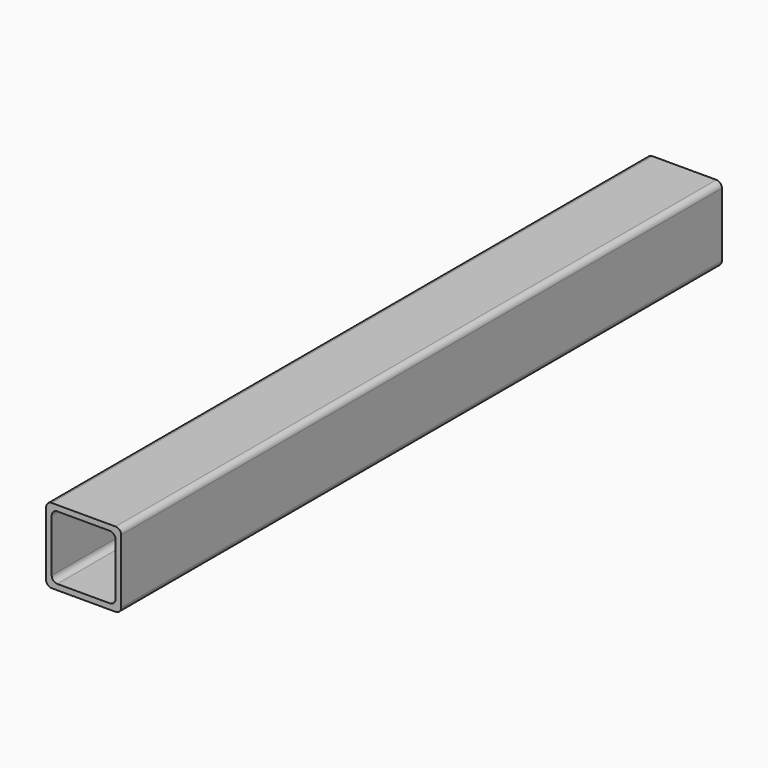
from build123d import *

# Parameters (mm, degrees)
F1_DEPTH = 200


with BuildPart() as f1:
    # F0 (on Front) → F1 (new body, symmetric)
    with BuildSketch(Plane.XZ):
        with BuildLine():
            ThreePointArc((20, 17), (19.12132, 19.12132), (17, 20))
            Line((17, 20), (-17, 20))
            ThreePointArc((-17, 20), (-19.12132, 19.12132), (-20, 17))
            Line((-20, 17), (-20, -17))
            ThreePointArc((-20, -17), (-19.12132, -19.12132), (-17, -20))
            Line((-17, -20), (17, -20))
            ThreePointArc((17, -20), (19.12132, -19.12132), (20, -17))
            Line((20, -17), (20, 17))
        make_face()
        with BuildLine():
            Line((-14, 17), (14, 17))
            ThreePointArc((14, 17), (16.12132, 16.12132), (17, 14))
            Line((17, 14), (17, -14))
            ThreePointArc((17, -14), (16.12132, -16.12132), (14, -17))
            Line((14, -17), (-14, -17))
            ThreePointArc((-14, -17), (-16.12132, -16.12132), (-17, -14))
            Line((-17, -14), (-17, 14))
            ThreePointArc((-17, 14), (-16.12132, 16.12132), (-14, 17))
        make_face(mode=Mode.SUBTRACT)
    extrude(amount=F1_DEPTH, both=True)


solid = f1.part
